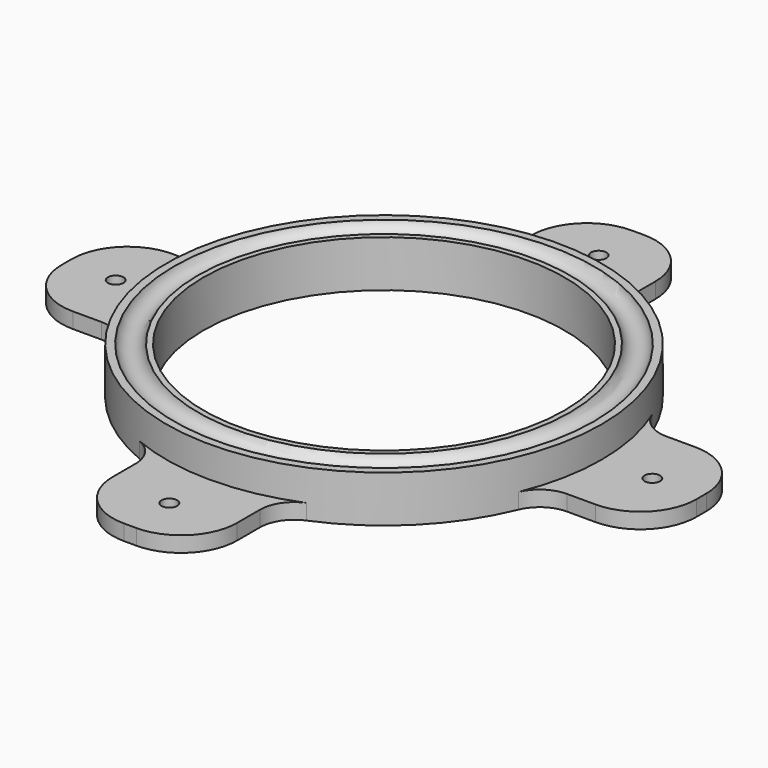
from build123d import *

# Parameters (mm, degrees)
SKETCH_R        = 70
SKETCH_R_2      = 57.25
PAD_DEPTH       = 15
SKETCH001_R     = 4
SKETCH002_W     = 40
SKETCH002_H     = 40
PAD001_DEPTH    = 5
SKETCH003_R     = 2.5
POCKET_DEPTH    = 5
FILLET_R        = 18
FILLET001_R     = 11
SKETCH004_R     = 58
POCKET001_DEPTH = 15.001


with BuildPart() as part:
    # Sketch → Pad (new body)
    with BuildSketch(Plane.XY):
        Circle(SKETCH_R)
        Circle(SKETCH_R_2, mode=Mode.SUBTRACT)
    extrude(amount=PAD_DEPTH)

    # Sketch001 → Groove (revolve, cut)
    with BuildSketch(Plane.XZ):
        with Locations((63.625, 16)):
            Circle(SKETCH001_R)
    revolve(axis=Axis((0, 0, 0), (0, 0, 1)), mode=Mode.SUBTRACT)

    # Sketch002 (on Face2 of Groove) → Pad001 (join)
    with BuildSketch(Plane(origin=(0, 0, 0), x_dir=(1, 0, 0), z_dir=(0, 0, -1))):
        with Locations((82, 0)):
            Rectangle(SKETCH002_W, SKETCH002_H)
        with Locations((-82, 0)):
            Rectangle(SKETCH002_W, SKETCH002_H)
        with Locations((0, 82)):
            Rectangle(SKETCH002_W, SKETCH002_H)
        with Locations((0, -82)):
            Rectangle(SKETCH002_W, SKETCH002_H)
    extrude(amount=-PAD001_DEPTH)

    # Sketch003 (on Face13 of Pad001) → Pocket (cut)
    with BuildSketch(Plane.XY.offset(5)):
        with Locations((-86.25, 0)):
            Circle(SKETCH003_R)
        with Locations((0, -86.25)):
            Circle(SKETCH003_R)
        with Locations((86.25, 0)):
            Circle(SKETCH003_R)
        with Locations((0, 86.25)):
            Circle(SKETCH003_R)
    extrude(amount=-POCKET_DEPTH, mode=Mode.SUBTRACT)

    # Fillet
    fillet_edges = [part.edges().sort_by_distance(p)[0] for p in [
        (-20, 102, 2.5),
        (20, 102, 2.5),
        (102, 20, 2.5),
        (102, -20, 2.5),
        (20, -102, 2.5),
        (-20, -102, 2.5),
        (-102, -20, 2.5),
        (-102, 20, 2.5),
    ]]
    fillet(fillet_edges, radius=FILLET_R)

    # Fillet001
    fillet001_edges = [part.edges().sort_by_distance(p)[0] for p in [
        (67.082039, 20, 2.5),
        (20, 67.082039, 2.5),
        (-20, 67.082039, 2.5),
        (-67.082039, 20, 2.5),
        (-67.082039, -20, 2.5),
        (-20, -67.082039, 2.5),
        (20, -67.082039, 2.5),
        (67.082039, -20, 2.5),
    ]]
    fillet(fillet001_edges, radius=FILLET001_R)

    # Sketch004 (on Face41 of Fillet001) → Pocket001 (cut, through all)
    with BuildSketch(Plane.XY.offset(15)):
        Circle(SKETCH004_R)
    extrude(amount=-POCKET001_DEPTH, mode=Mode.SUBTRACT)


solid = part.part
